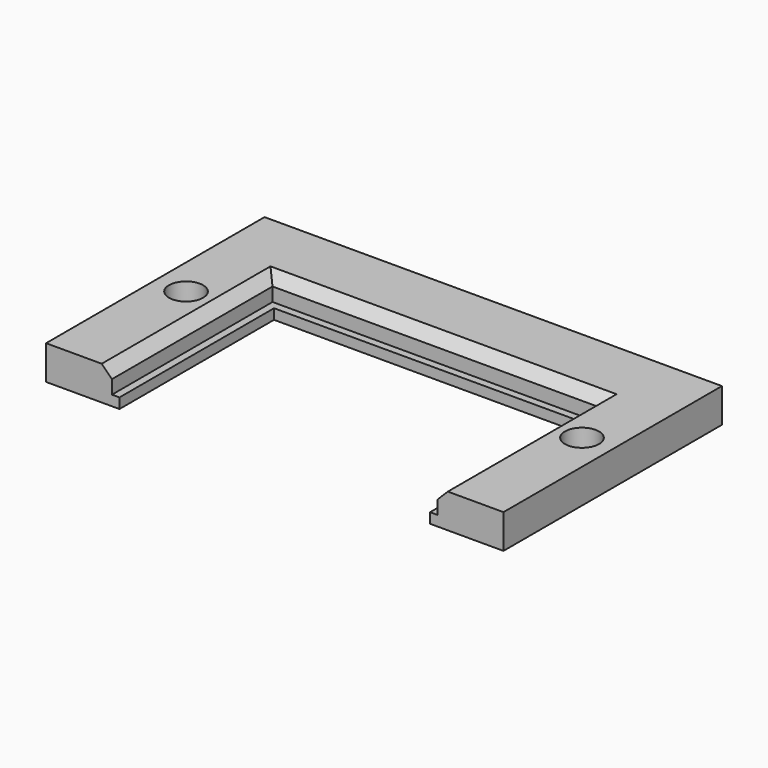
from build123d import *

# Parameters (mm, degrees)
SKETCH_W        = 67
SKETCH_H        = 40
PAD_DEPTH       = 5
SKETCH001_W     = 45.5
SKETCH001_H     = 28.3
POCKET_DEPTH    = 5.001
SKETCH002_W     = 47.7
SKETCH002_H     = 29.4
POCKET001_DEPTH = 3.5
SKETCH003_R     = 2.5
POCKET002_DEPTH = 5.001
CHAMFER_SIZE    = 1.5


with BuildPart() as part:
    # Sketch → Pad (new body)
    with BuildSketch(Plane.XY):
        Rectangle(SKETCH_W, SKETCH_H)
    extrude(amount=PAD_DEPTH)

    # Sketch001 (on Face6 of Pad) → Pocket (cut, through all)
    with BuildSketch(Plane.XY.offset(5)):
        with Locations((0, -5.85)):
            Rectangle(SKETCH001_W, SKETCH001_H)
    extrude(amount=-POCKET_DEPTH, mode=Mode.SUBTRACT)

    # Sketch002 (on Face5 of Pocket) → Pocket001 (cut)
    with BuildSketch(Plane.XY.offset(5)):
        with Locations((0, -5.3)):
            Rectangle(SKETCH002_W, SKETCH002_H)
    extrude(amount=-POCKET001_DEPTH, mode=Mode.SUBTRACT)

    # Sketch003 (on Face5 of Pocket001) → Pocket002 (cut, through all)
    with BuildSketch(Plane.XY.offset(5)):
        with Locations((29, 0)):
            Circle(SKETCH003_R)
        with Locations((-29, 0)):
            Circle(SKETCH003_R)
    extrude(amount=-POCKET002_DEPTH, mode=Mode.SUBTRACT)

    # Chamfer
    chamfer_edges = [part.edges().sort_by_distance(p)[0] for p in [
        (0, 9.4, 5),
        (-23.85, -5.3, 5),
        (23.85, -5.3, 5),
    ]]
    chamfer(chamfer_edges, length=CHAMFER_SIZE)


solid = part.part
